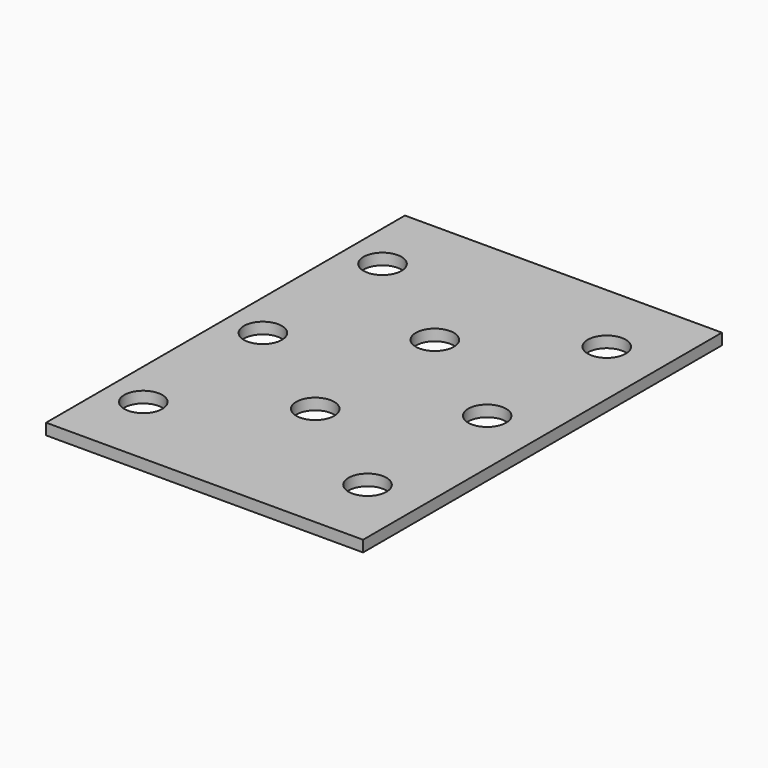
from build123d import *

# Parameters (mm, degrees)
F0_W     = 424
F0_H     = 600
F0_R     = 25.4
F1_DEPTH = 15


with BuildPart() as f1:
    # F0 (on Top) → F1 (new body)
    with BuildSketch(Plane.XY):
        Rectangle(F0_W, F0_H)
        with Locations((-162, -200)):
            Circle(F0_R, mode=Mode.SUBTRACT)
        with Locations((-12, -100)):
            Circle(F0_R, mode=Mode.SUBTRACT)
        with Locations((138, -200)):
            Circle(F0_R, mode=Mode.SUBTRACT)
        with Locations((-162, 0)):
            Circle(F0_R, mode=Mode.SUBTRACT)
        with Locations((-12, 100)):
            Circle(F0_R, mode=Mode.SUBTRACT)
        with Locations((-162, 200)):
            Circle(F0_R, mode=Mode.SUBTRACT)
        with Locations((138, 0)):
            Circle(F0_R, mode=Mode.SUBTRACT)
        with Locations((138, 200)):
            Circle(F0_R, mode=Mode.SUBTRACT)
    extrude(amount=F1_DEPTH)


solid = f1.part
